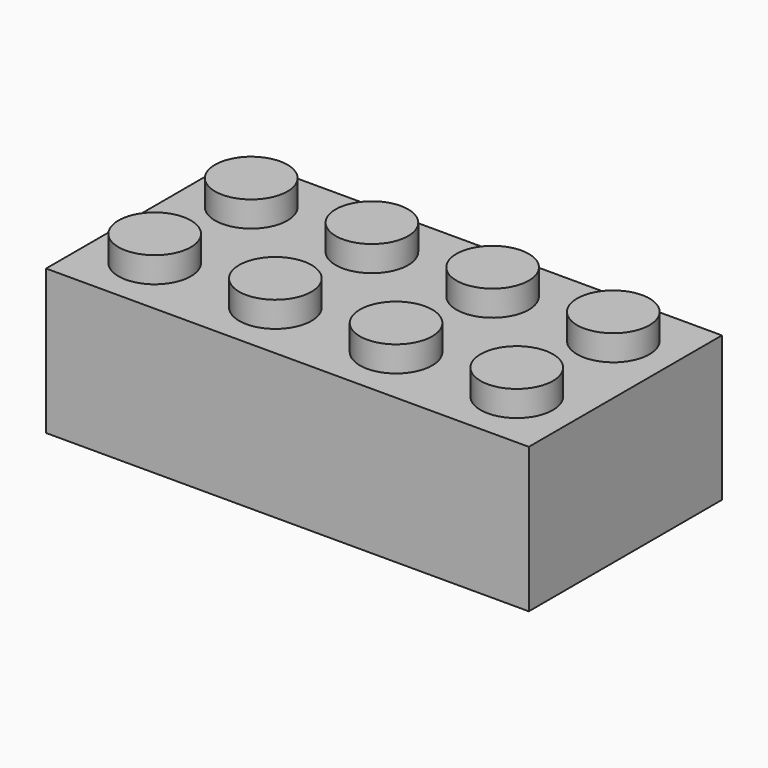
from build123d import *

# Parameters (mm, degrees)
F1_DEPTH = 8
F3_W     = 8
F3_H     = 8
F3_R     = 2.4
F4_DEPTH = 1.7
F5_R     = 2.4
F6_DEPTH = 1.7


with BuildPart() as f1:
    # F0 (on Front) → F1 (new body)
    with BuildSketch(Plane.XZ):
        Polygon((-2.4, 9.6), (-4, 9.6), (-4, 0), (4, 0), (4, 9.6), (2.4, 9.6), (2.4, 11.3), (-2.4, 11.3), align=None)
    extrude(amount=F1_DEPTH)

    # F3 (on plane+point) → F4 (cut, through all)
    with BuildSketch(Plane.XY.offset(11.3)):
        with Locations((0, -4)):
            Rectangle(F3_W, F3_H)
        with Locations((0, -4)):
            Circle(F3_R, mode=Mode.SUBTRACT)
    extrude(amount=-F4_DEPTH, mode=Mode.SUBTRACT)

    # F5 (on Top) → F6 (cut)
    with BuildSketch(Plane.XY):
        with Locations((0, -4)):
            Circle(F5_R)
    extrude(amount=F6_DEPTH, mode=Mode.SUBTRACT)

    # F8: F1 across plane


with BuildPart() as f1_1:
    add(f1.part)
    add(f1.part.mirror(Plane.YZ.offset(4)))

    # F9: F1 across plane


with BuildPart() as f1_2:
    add(f1_1.part)
    add(f1_1.part.mirror(Plane.XZ))

    # F11: F1 across plane


with BuildPart() as f1_3:
    add(f1_2.part)
    add(f1_2.part.mirror(Plane.YZ.offset(12)))


solid = f1_3.part
